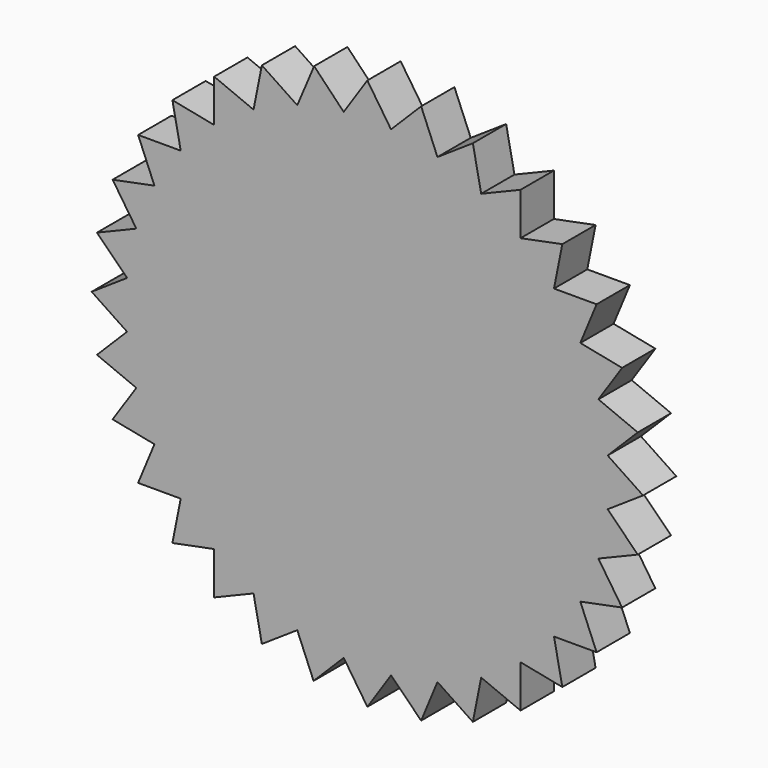
from build123d import *

# Parameters (mm, degrees)
F1_DEPTH = 3.175


with BuildPart() as f1:
    # F0 (on Front) → F1 (new body, symmetric)
    with BuildSketch(Plane.XZ):
        Polygon((-23.3813293569, 34.9926322543), (-23.3813293569, 28.4902322543), (-17.3738950847, 32.5042715037), align=None)
        Polygon((-17.3738950847, 32.5042715037), (-23.3813293569, 28.4902322543), (-28.4902322543, 23.3813293569), (-32.5042715037, 17.3738950847), (-35.2691898278, 10.6987917678), (-36.678732966, 3.6125398832), (-36.678732966, -3.6125398832), (-35.2691898278, -10.6987917678), (-32.5042715037, -17.3738950847), (-28.4902322543, -23.3813293569), (-23.3813293569, -28.4902322543), (-17.3738950847, -32.5042715037), (-10.6987917678, -35.2691898278), (-3.6125398832, -36.678732966), (3.6125398832, -36.678732966), (10.6987917678, -35.2691898278), (17.3738950847, -32.5042715037), (23.3813293569, -28.4902322543), (28.4902322543, -23.3813293569), (32.5042715037, -17.3738950847), (35.2691898278, -10.6987917678), (36.678732966, -3.6125398832), (36.678732966, 3.6125398832), (35.2691898278, 10.6987917678), (32.5042715037, 17.3738950847), (28.4902322543, 23.3813293569), (23.3813293569, 28.4902322543), (17.3738950847, 32.5042715037), (10.6987917678, 35.2691898278), (3.6125398832, 36.678732966), (-3.6125398832, 36.678732966), (-10.6987917678, 35.2691898278), align=None)
        Polygon((-28.4902322543, 23.3813293569), (-23.3813293569, 28.4902322543), (-29.7587875642, 29.7587875642), align=None)
        Polygon((-16.1053397748, 38.881729711), (-17.3738950847, 32.5042715037), (-10.6987917678, 35.2691898278), align=None)
        Polygon((-32.5042715037, 17.3738950847), (-28.4902322543, 23.3813293569), (-34.9926322543, 23.3813293569), align=None)
        Polygon((-8.1233671151, 41.3620697513), (-10.6987917678, 35.2691898278), (-3.6125398832, 36.678732966), align=None)
        Polygon((-35.2691898278, 10.6987917678), (-32.5042715037, 17.3738950847), (-38.881729711, 16.1053397748), align=None)
        Polygon((0, 42.0852809731), (-3.6125398832, 36.678732966), (3.6125398832, 36.678732966), align=None)
        Polygon((-36.678732966, 3.6125398832), (-35.2691898278, 10.6987917678), (-41.2766241, 8.2104310172), align=None)
        Polygon((8.2104310172, 41.2766241), (3.6125398832, 36.678732966), (10.6987917678, 35.2691898278), align=None)
        Polygon((-36.678732966, -3.6125398832), (-36.678732966, 3.6125398832), (-42.0852809731, 0), align=None)
        Polygon((16.1053397748, 38.881729711), (10.6987917678, 35.2691898278), (17.3738950847, 32.5042715037), align=None)
        Polygon((-35.2691898278, -10.6987917678), (-36.678732966, -3.6125398832), (-41.2766241, -8.2104310172), align=None)
        Polygon((23.3813293569, 34.9926322543), (17.3738950847, 32.5042715037), (23.3813293569, 28.4902322543), align=None)
        Polygon((-32.5042715037, -17.3738950847), (-35.2691898278, -10.6987917678), (-38.881729711, -16.1053397748), align=None)
        Polygon((29.7587875642, 29.7587875642), (23.3813293569, 28.4902322543), (28.4902322543, 23.3813293569), align=None)
        Polygon((-28.4902322543, -23.3813293569), (-32.5042715037, -17.3738950847), (-34.9926322543, -23.3813293569), align=None)
        Polygon((34.9926322543, 23.3813293569), (28.4902322543, 23.3813293569), (32.5042715037, 17.3738950847), align=None)
        Polygon((-23.3813293569, -28.4902322543), (-28.4902322543, -23.3813293569), (-29.7587875642, -29.7587875642), align=None)
        Polygon((38.881729711, 16.1053397748), (32.5042715037, 17.3738950847), (35.2691898278, 10.6987917678), align=None)
        Polygon((-17.3738950847, -32.5042715037), (-23.3813293569, -28.4902322543), (-23.3813293569, -34.9926322543), align=None)
        Polygon((41.2766241, 8.2104310172), (35.2691898278, 10.6987917678), (36.678732966, 3.6125398832), align=None)
        Polygon((-10.6987917678, -35.2691898278), (-17.3738950847, -32.5042715037), (-16.1053397748, -38.881729711), align=None)
        Polygon((42.0852809731, 0), (36.678732966, 3.6125398832), (36.678732966, -3.6125398832), align=None)
        Polygon((-3.6125398832, -36.678732966), (-10.6987917678, -35.2691898278), (-8.2104310172, -41.2766241), align=None)
        Polygon((41.2766241, -8.2104310172), (36.678732966, -3.6125398832), (35.2691898278, -10.6987917678), align=None)
        Polygon((3.6125398832, -36.678732966), (-3.6125398832, -36.678732966), (0, -42.0852809731), align=None)
        Polygon((38.881729711, -16.1053397748), (35.2691898278, -10.6987917678), (32.5042715037, -17.3738950847), align=None)
        Polygon((10.6987917678, -35.2691898278), (3.6125398832, -36.678732966), (8.2104310172, -41.2766241), align=None)
        Polygon((34.9926322543, -23.3813293569), (32.5042715037, -17.3738950847), (28.4902322543, -23.3813293569), align=None)
        Polygon((17.3738950847, -32.5042715037), (10.6987917678, -35.2691898278), (16.1053397748, -38.881729711), align=None)
        Polygon((29.7587875642, -29.7587875642), (28.4902322543, -23.3813293569), (23.3813293569, -28.4902322543), align=None)
        Polygon((23.3813293569, -28.4902322543), (17.3738950847, -32.5042715037), (23.3813293569, -34.9926322543), align=None)
    extrude(amount=F1_DEPTH, both=True)


solid = f1.part
